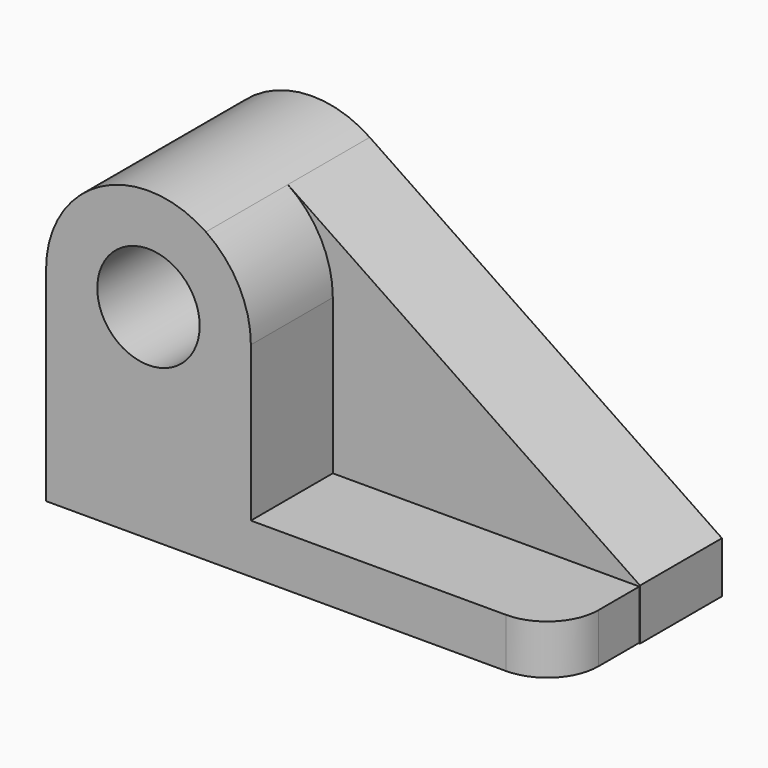
from build123d import *

# Parameters (mm, degrees)
F0_R     = 12.7
F1_DEPTH = 25.4
F2_R     = 12.7
F3_DEPTH = 25.4
F4_R     = 12.7


with BuildPart() as f1:
    # F0 (on Front) → F1 (new body)
    with BuildSketch(Plane.XZ):
        with BuildLine():
            Line((101.6, -38.1), (14.244434, 21.029886))
            ThreePointArc((14.244434, 21.029886), (-11.90276, 22.438456), (-25.4, 0))
            Line((-25.4, 0), (-25.4, -50.8))
            Line((-25.4, -50.8), (101.6, -50.8))
            Line((101.6, -50.8), (101.6, -38.1))
        make_face()
        Circle(F0_R, mode=Mode.SUBTRACT)
    extrude(amount=F1_DEPTH)

    # F2 (on face) → F3 (join)
    with BuildSketch(Plane.XZ.offset(25.4)):
        with BuildLine():
            Line((25.4, -38.380738), (25.4, 0))
            ThreePointArc((25.4, 0), (22.438456, 11.90276), (14.244434, 21.029886))
            ThreePointArc((14.244434, 21.029886), (-11.90276, 22.438456), (-25.4, 0))
            Line((-25.4, 0), (-25.4, -50.652947))
            Line((-25.4, -50.652947), (101.439578, -50.652947))
            Line((101.439578, -50.652947), (101.439578, -38.380738))
            Line((101.439578, -38.380738), (25.4, -38.380738))
        make_face()
        Circle(F2_R, mode=Mode.SUBTRACT)
    extrude(amount=F3_DEPTH)

    # F4
    f4_edges = [f1.edges().sort_by_distance(p)[0] for p in [
        (101.439578, -50.8, -44.516843),
    ]]
    fillet(f4_edges, radius=F4_R)


solid = f1.part
